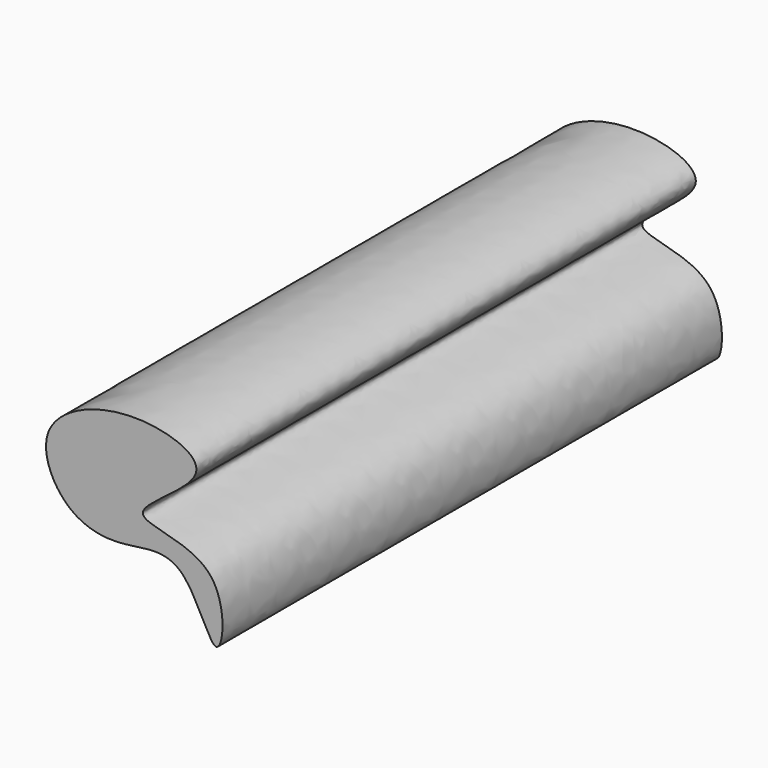
from build123d import *

# Parameters (mm, degrees)
F1_DEPTH = 254


with BuildPart() as f1:
    # F0 (on Front) → F1 (new body)
    with BuildSketch(Plane.XZ):
        with BuildLine():
            add(Edge.make_bspline(
                [(0, 0), (-3.0555619876, -0.4549496841), (-12.1587601184, 31.9166900213), (-39.441721597, 21.953901792), (-62.9838953793, 27.7494376417), (-76.7288876183, 58.9749582516), (-37.091512837, 76.9237090226), (8.2740514016, 61.6988356999), (-49.0907539602, 33.1293195294), (5.9964353337, 35.1704923047), (2.9893760478, 0.4450951066), (0, 0)],
                knots=[0, 0, 0, 0, 0.1094953912, 0.213752422, 0.3146879456, 0.4190412357, 0.5493242301, 0.6615481614, 0.7779479941, 0.8928763674, 1, 1, 1, 1], degree=3))
        make_face()
    extrude(amount=F1_DEPTH)


solid = f1.part
